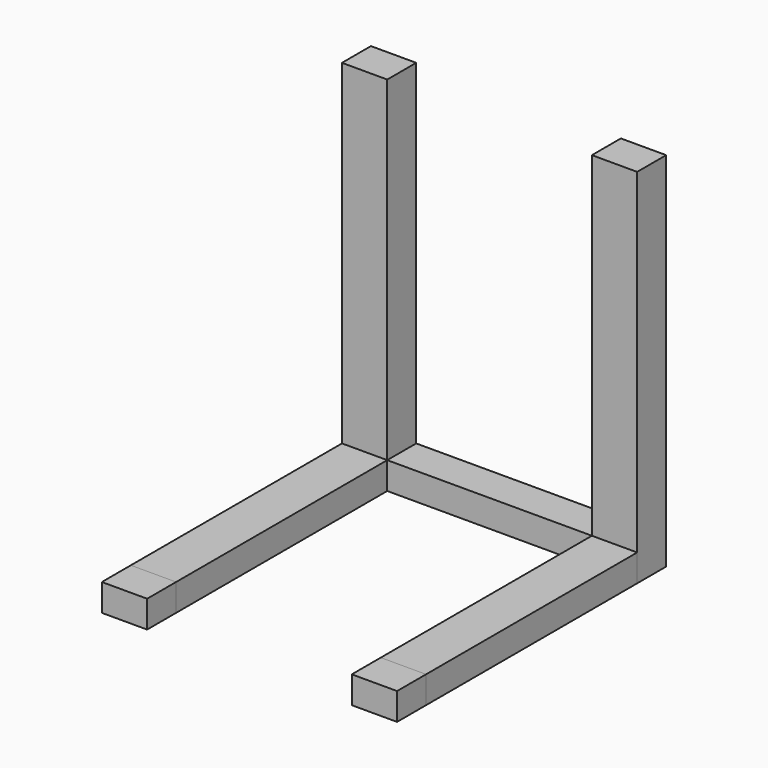
from build123d import *

# Parameters (mm, degrees)
F0_W     = 12.5
F0_H     = 10
F1_DEPTH = 100
F0_H_2   = 72.857127
F0_W_2   = 56.5
F2_DEPTH = 7.5
F0_H_3   = 9.999994
F3_DEPTH = 7.5


with BuildPart() as f1:
    # F0 (on Top) → F1 (new body)
    with BuildSketch(Plane.XY):
        with Locations((-28.153578, 29.843405)):
            Rectangle(F0_W, F0_H)
        with Locations((40.846422, 29.843405)):
            Rectangle(F0_W, F0_H)
    extrude(amount=F1_DEPTH)


with BuildPart() as f2:
    # F0 (on Top) → F2 (new body)
    with BuildSketch(Plane.XY):
        with Locations((-28.153578, -11.585159)):
            Rectangle(F0_W, F0_H_2)
        with Locations((40.846422, -11.585159)):
            Rectangle(F0_W, F0_H_2)
        with Locations((6.346422, 29.843405)):
            Rectangle(F0_W_2, F0_H)
    extrude(amount=F2_DEPTH)


with BuildPart() as f3:
    # F0 (on Top) → F3 (new body)
    with BuildSketch(Plane.XY):
        with Locations((-28.153578, -53.013719)):
            Rectangle(F0_W, F0_H_3)
        with Locations((40.846422, -53.013719)):
            Rectangle(F0_W, F0_H_3)
    extrude(amount=F3_DEPTH)


solid = Compound([f1.part, f2.part, f3.part])
